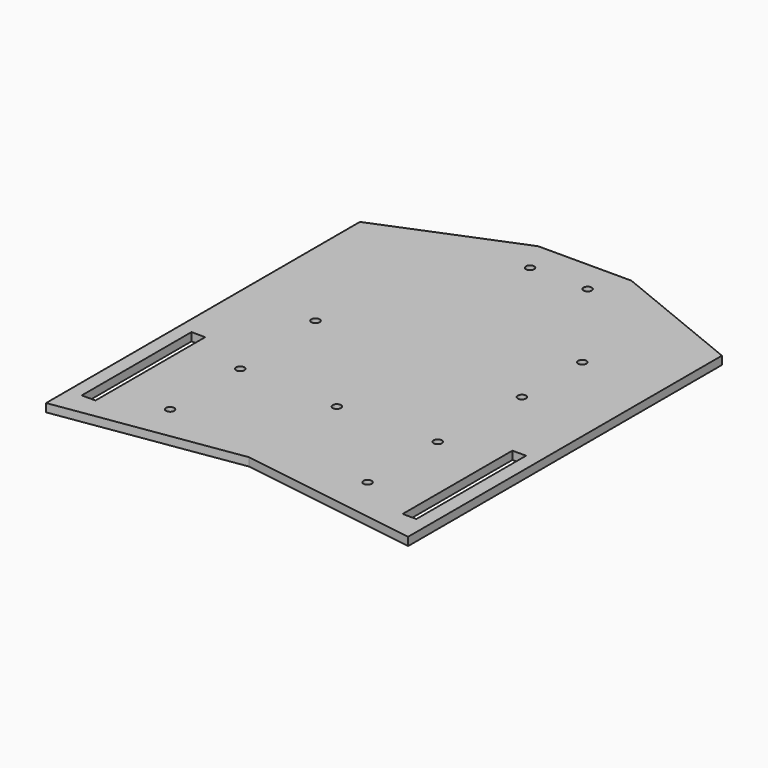
from build123d import *

# Parameters (mm, degrees)
F1_DEPTH = 3
F2_W     = 5
F2_H     = 50
F3_DEPTH = 3
F5_D     = 3
F8_D     = 3
F10_D    = 3
F12_D    = 3
F14_D    = 3


with BuildPart() as f1:
    # F0 (on Top) → F1 (new body)
    with BuildSketch(Plane.XY):
        Polygon((0, 10), (66, 0), (66, 143), (17, 163), (0, 163), align=None)
    extrude(amount=F1_DEPTH)

    # F2 (on face) → F3 (cut)
    with BuildSketch(Plane.XY.offset(3)):
        with Locations((58.5, 35)):
            Rectangle(F2_W, F2_H)
    extrude(amount=-F3_DEPTH, mode=Mode.SUBTRACT)

    # F5 (through all)
    with Locations(Plane.XY.offset(3)):
        with Locations((36, 19), (36, 51)):
            Hole(F5_D / 2)

    # F6: F1 across plane


with BuildPart() as f1_1:
    add(f1.part)
    add(f1.part.mirror(Plane.YZ))

    # F8 (through all)
    with Locations(Plane.XY.offset(3)):
        with Locations((0, 50)):
            Hole(F8_D / 2)

    # F10 (through all)
    with Locations(Plane.XY.offset(3)):
        with Locations((-37.773754, 87.5), (37.5, 87.5)):
            Hole(F10_D / 2)

    # F12 (through all)
    with Locations(Plane.XY.offset(3)):
        with Locations((37.5, 115)):
            Hole(F12_D / 2)

    # F14 (through all)
    with Locations(Plane.XY.offset(3)):
        with Locations((-10.5, 151.18438), (10.5, 151.18438)):
            Hole(F14_D / 2)


solid = f1_1.part
